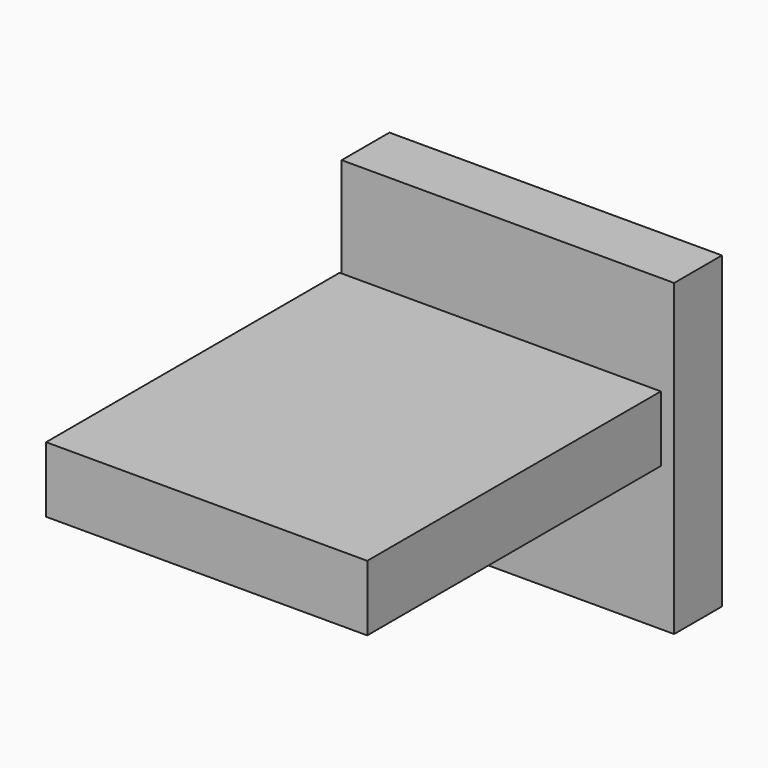
from build123d import *

# Parameters (mm, degrees)
F0_W     = 102.187556
F0_H     = 18.34783
F1_DEPTH = 94.996
F2_W     = 98.708875
F2_H     = 20.189193
F3_DEPTH = 112.776


with BuildPart() as f1:
    # F0 (on Top) → F1 (new body)
    with BuildSketch(Plane.XY):
        with Locations((-14.888035, 9.173915)):
            Rectangle(F0_W, F0_H)
    extrude(amount=-F1_DEPTH)

    # F2 (on Front) → F3 (join)
    with BuildSketch(Plane.XZ):
        with Locations((-17.250094, -40.75765)):
            Rectangle(F2_W, F2_H)
    extrude(amount=F3_DEPTH)


solid = f1.part
